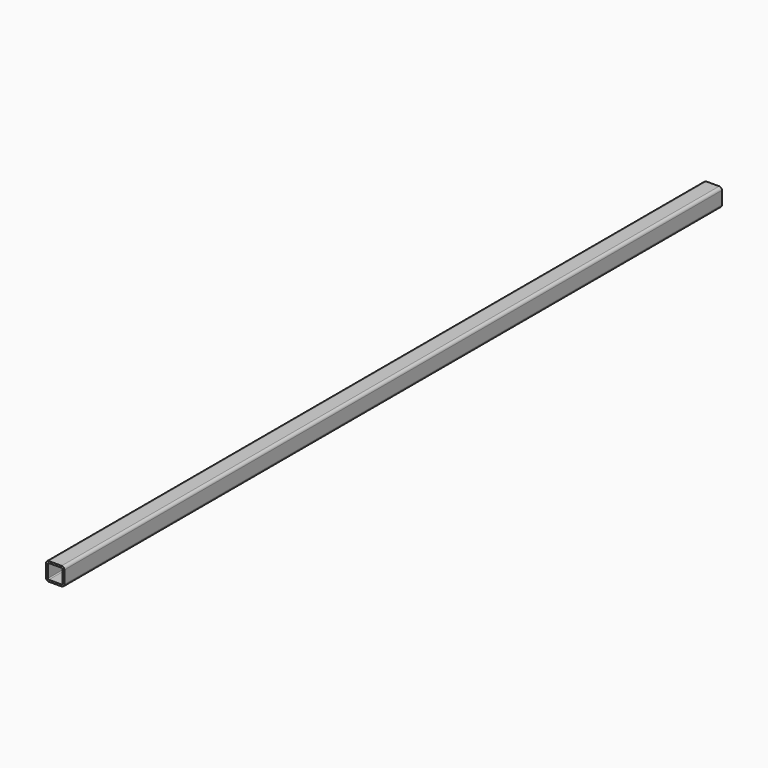
from build123d import *

# Parameters (mm, degrees)
F2_W     = 20
F2_H     = 20
F3_DEPTH = 450
F4_R     = 3
F5_T     = -2


with BuildPart() as f3:
    # F2 (on Front) → F3 (new body, symmetric)
    with BuildSketch(Plane.XZ):
        Rectangle(F2_W, F2_H)
    extrude(amount=F3_DEPTH, both=True)

    # F4
    f4_edges = [f3.edges().sort_by_distance(p)[0] for p in [
        (10, 0, 10),
        (-10, 0, 10),
        (10, 0, -10),
        (-10, 0, -10),
    ]]
    fillet(f4_edges, radius=F4_R)

    # F5
    f5_openings = [f3.faces().sort_by_distance(p)[0] for p in [
        (0, -450, 0),
        (0, 450, 0),
    ]]
    offset(amount=F5_T, openings=f5_openings)


solid = f3.part
